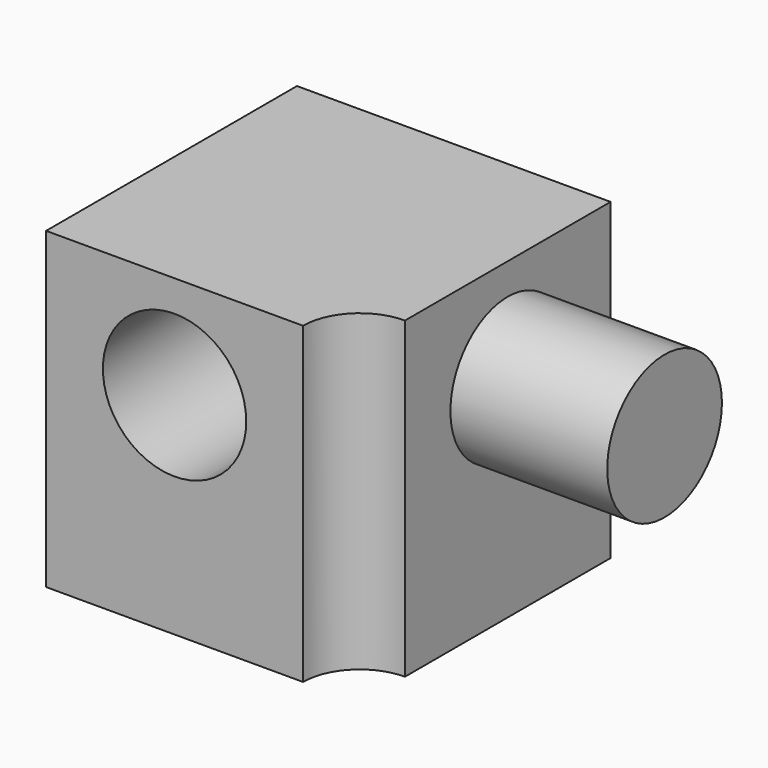
from build123d import *

# Parameters (mm, degrees)
F1_DEPTH = 5.55625
F3_R     = 1.27
F4_DEPTH = 3.175
F5_R     = 1.27
F6_DEPTH = 2.38125
F2_R     = 1.27
F7_DEPTH = 2.778125


with BuildPart() as f1:
    # F0 (on Top) → F1 (new body)
    with BuildSketch(Plane.XY):
        with BuildLine():
            Line((-5.55625, 0), (-1.0033, 0))
            ThreePointArc((-1.0033, 0), (-0.70944, 0.70944), (0, 1.0033))
            Line((0, 1.0033), (0, 5.55625))
            Line((0, 5.55625), (-5.55625, 5.55625))
            Line((-5.55625, 5.55625), (-5.55625, 0))
        make_face()
    extrude(amount=F1_DEPTH)

    # F3 (on face) → F4 (cut)
    with BuildSketch(Plane.XZ):
        with Locations((-3.279775, 3.7338)):
            Circle(F3_R)
    extrude(amount=-F4_DEPTH, mode=Mode.SUBTRACT)

    # F5 (on face) → F6 (cut)
    with BuildSketch(Plane(origin=(0, 0, 0), x_dir=(1, 0, 0), z_dir=(0, 0, -1))):
        with Locations((-3.279775, -3.279775)):
            Circle(F5_R)
    extrude(amount=-F6_DEPTH, mode=Mode.SUBTRACT)

    # F2 (on face) → F7 (join)
    with BuildSketch(Plane.YZ):
        with Locations((3.279775, 3.7338)):
            Circle(F2_R)
    extrude(amount=F7_DEPTH)


with BuildPart() as f8_1:
    # F8: copy of F1
    add(f1.part.moved(Location((25.4, 0, 0))))


solid = f1.part
